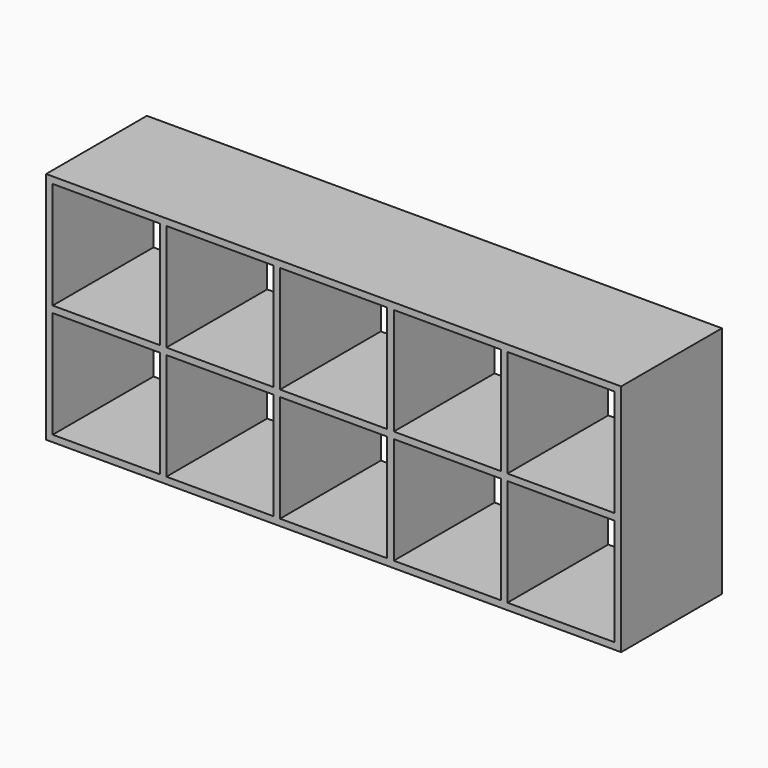
from build123d import *

# Parameters (mm, degrees)
F0_W     = 340
F0_H     = 21
F1_DEPTH = 400


with BuildPart() as f1:
    # F0 (on Front) → F1 (new body)
    with BuildSketch(Plane.XZ):
        Polygon((1826, 0), (0, 0), (0, -21), (21, -21), (361, -21), (382, -21), (722, -21), (743, -21), (1083, -21), (1104, -21), (1444, -21), (1465, -21), (1805, -21), (1826, -21), align=None)
        Polygon((1465, -361), (1465, -21), (1444, -21), (1444, -361), (1444, -382), (1444, -722), (1465, -722), (1465, -382), align=None)
        Polygon((1104, -361), (1104, -21), (1083, -21), (1083, -361), (1083, -382), (1083, -722), (1104, -722), (1104, -382), align=None)
        Polygon((21, -722), (0, -722), (0, -743), (1826, -743), (1826, -722), (1805, -722), (1465, -722), (1444, -722), (1104, -722), (1083, -722), (743, -722), (722, -722), (382, -722), (361, -722), align=None)
        Polygon((743, -21), (722, -21), (722, -361), (722, -382), (722, -722), (743, -722), (743, -382), (743, -361), align=None)
        Polygon((382, -21), (361, -21), (361, -361), (361, -382), (361, -722), (382, -722), (382, -382), (382, -361), align=None)
        Polygon((21, -21), (0, -21), (0, -722), (21, -722), (21, -382), (21, -361), align=None)
        with Locations((191, -371.5)):
            Rectangle(F0_W, F0_H)
        with Locations((552, -371.5)):
            Rectangle(F0_W, F0_H)
        with Locations((913, -371.5)):
            Rectangle(F0_W, F0_H)
        with Locations((1274, -371.5)):
            Rectangle(F0_W, F0_H)
        Polygon((1826, -722), (1826, -21), (1805, -21), (1805, -361), (1805, -382), (1805, -722), align=None)
        with Locations((1635, -371.5)):
            Rectangle(F0_W, F0_H)
    extrude(amount=F1_DEPTH)


solid = f1.part
